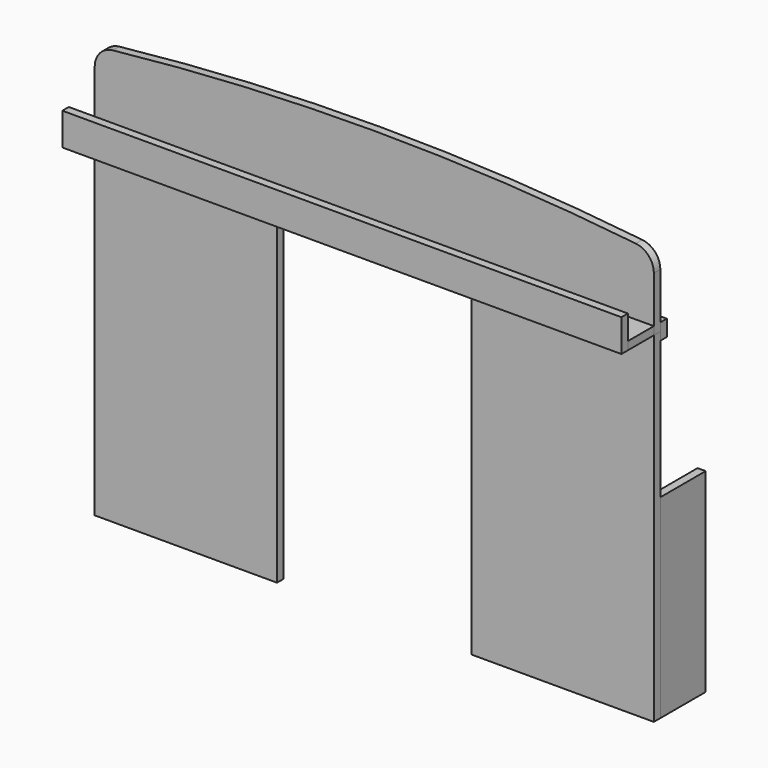
from build123d import *

# Parameters (mm, degrees)
F0_W      = 25.4
F0_H      = 177.8
F1_DEPTH  = 609.6
F2_W      = 25.4
F2_H      = 25.4
F3_DEPTH  = 609.6
F4_W      = 571.5
F4_H      = 1066.8
F5_DEPTH  = 25.4
F7_DEPTH  = 25.4
F8_W      = 571.5
F8_H      = 25.4
F9_DEPTH  = 25.4
F12_R     = 63.5
F12_2_R   = 63.5
F13_W     = 1752.6
F13_H     = 25.4
F14_DEPTH = 101.6
F15_W     = 1752.6
F15_H     = 76.2
F15_H_2   = 25.4
F16_DEPTH = 25.4


with BuildPart() as f1:
    # F0 (on Top) → F1 (new body)
    with BuildSketch(Plane.XY):
        with Locations((-863.6, -50.8)):
            Rectangle(F0_W, F0_H)
    extrude(amount=F1_DEPTH)


with BuildPart() as f3:
    # F2 (on Top) → F3 (new body)
    with BuildSketch(Plane.XY):
        with Locations((-838.2, -127)):
            Rectangle(F2_W, F2_H)
    extrude(amount=F3_DEPTH)


with BuildPart() as f5:
    # F4 (on face) → F5 (new body)
    with BuildSketch(Plane.XZ.offset(139.7)):
        with Locations((-590.55, 533.4)):
            Rectangle(F4_W, F4_H)
    extrude(amount=F5_DEPTH)


with BuildPart() as f7:
    # F6 (on face) → F7 (new body)
    with BuildSketch(Plane(origin=(0, -139.7, 0), x_dir=(-1, 0, 0), z_dir=(0, 1, 0))):
        with BuildLine():
            Line((304.8, 1066.8), (876.3, 1066.8))
            Line((876.3, 1066.8), (876.3, 1295.4))
            ThreePointArc((876.3, 1295.4), (438.8856143689, 1333.4893478642), (0, 1346.2))
            Line((0, 1346.2), (0, 1066.8))
            Line((0, 1066.8), (304.8, 1066.8))
        make_face()
    extrude(amount=-F7_DEPTH)

    # F10: F7 across plane


with BuildPart() as f9:
    # F8 (on face) → F9 (new body)
    with BuildSketch(Plane(origin=(0, -139.7, 0), x_dir=(-1, 0, 0), z_dir=(0, 1, 0))):
        with Locations((590.55, 1079.5)):
            Rectangle(F8_W, F8_H)
        with Locations((590.55, 1054.1)):
            Rectangle(F8_W, F8_H)
    extrude(amount=F9_DEPTH)


with BuildPart() as f7_1:
    add(f7.part)
    add(f7.part.mirror(Plane.YZ))


with BuildPart() as f11_1:
    # F11: instance of F9
    add(f9.part.mirror(Plane.YZ))


with BuildPart() as f11_2:
    # F11: instance of F5
    add(f5.part.mirror(Plane.YZ))


with BuildPart() as f11_3:
    # F11: instance of F3
    add(f3.part.mirror(Plane.YZ))


with BuildPart() as f11_4:
    # F11: instance of F1
    add(f1.part.mirror(Plane.YZ))


with BuildPart() as f11_5:
    # F11: instance of F7
    add(f7_1.part.mirror(Plane.YZ))

    # F12#2
    f12_2_edges = [f11_5.edges().sort_by_distance(p)[0] for p in [
        (-876.3, -152.4, 1295.4),
        (876.3, -152.4, 1295.4),
    ]]
    fillet(f12_2_edges, radius=F12_2_R)


with BuildPart() as f7_2:
    add(f7_1.part)

    # F12
    f12_edges = [f7_2.edges().sort_by_distance(p)[0] for p in [
        (-876.3, -152.4, 1295.4),
        (876.3, -152.4, 1295.4),
    ]]
    fillet(f12_edges, radius=F12_R)


with BuildPart() as f14:
    # F13 (on face) → F14 (new body)
    with BuildSketch(Plane.XZ.offset(165.1)):
        with Locations((0, 1079.5)):
            Rectangle(F13_W, F13_H)
    extrude(amount=F14_DEPTH)


with BuildPart() as f16:
    # F15 (on face) → F16 (new body)
    with BuildSketch(Plane.XZ.offset(266.7)):
        with Locations((0, 1130.3)):
            Rectangle(F15_W, F15_H)
        with Locations((0, 1079.5)):
            Rectangle(F15_W, F15_H_2)
    extrude(amount=F16_DEPTH)


solid = Compound([f1.part, f3.part, f5.part, f9.part, f11_1.part, f11_2.part, f11_3.part, f11_4.part, f11_5.part, f7_2.part, f14.part, f16.part])
